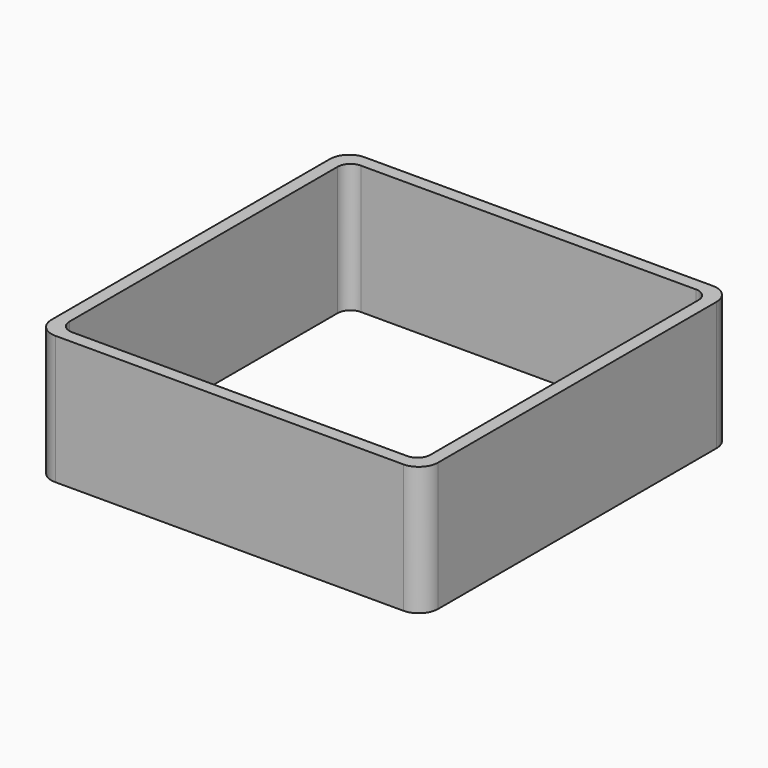
from build123d import *

# Parameters (mm, degrees)
EXTRUDE_DEPTH = 50


with BuildPart() as part:
    # Sketch → Extrude (new body)
    with BuildSketch(Plane.XY):
        with BuildLine():
            Line((-67.5, 75), (67.5, 75))
            ThreePointArc((75, 67.5), (72.803301, 72.803301), (67.5, 75))
            Line((75, 67.5), (75, -67.5))
            ThreePointArc((67.5, -75), (72.803301, -72.803301), (75, -67.5))
            Line((67.5, -75), (-67.5, -75))
            ThreePointArc((-75, -67.5), (-72.803301, -72.803301), (-67.5, -75))
            Line((-75, -67.5), (-75, 67.5))
            ThreePointArc((-67.5, 75), (-72.803301, 72.803301), (-75, 67.5))
        make_face()
        with BuildLine():
            Line((-65, 70), (65, 70))
            ThreePointArc((70, 65), (68.535534, 68.535534), (65, 70))
            Line((70, 65), (70, -65))
            ThreePointArc((65, -70), (68.535534, -68.535534), (70, -65))
            Line((65, -70), (-65, -70))
            ThreePointArc((-70, -65), (-68.535534, -68.535534), (-65, -70))
            Line((-70, -65), (-70, 65))
            ThreePointArc((-65, 70), (-68.535534, 68.535534), (-70, 65))
        make_face(mode=Mode.SUBTRACT)
    extrude(amount=EXTRUDE_DEPTH)


solid = part.part
